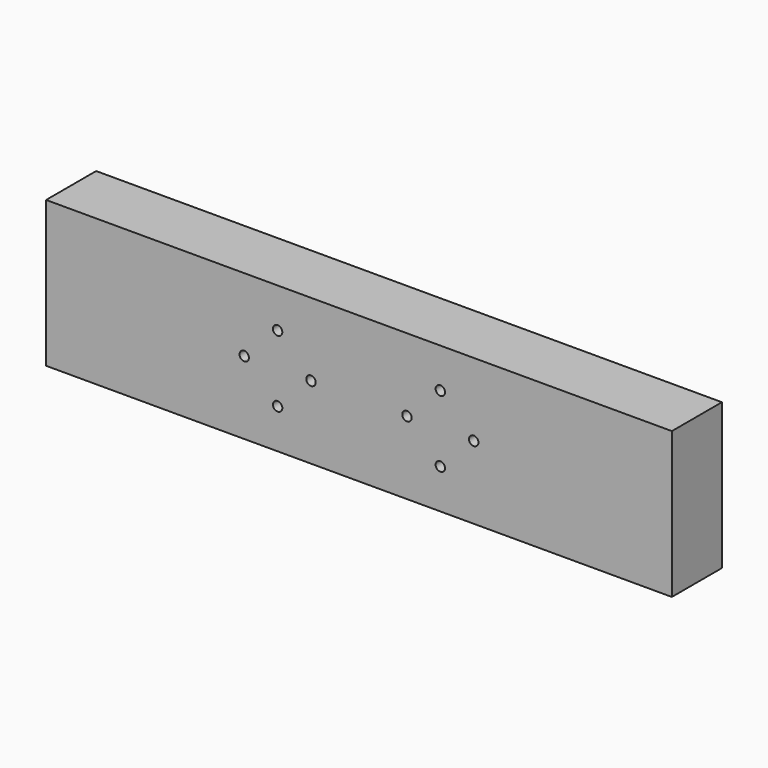
from build123d import *

# Parameters (mm, degrees)
F0_W     = 300
F0_H     = 70
F1_DEPTH = 30
F2_R     = 2.25
F3_DEPTH = 30.001


with BuildPart() as f1:
    # F0 (on Front) → F1 (new body)
    with BuildSketch(Plane.XZ):
        Rectangle(F0_W, F0_H)
    extrude(amount=F1_DEPTH)

    # F2 (on face) → F3 (cut, through all)
    with BuildSketch(Plane.XZ.offset(30)):
        with Locations((39, -16)):
            Circle(F2_R)
        with Locations((55, 0)):
            Circle(F2_R)
        with Locations((39, 16)):
            Circle(F2_R)
        with Locations((23, 0)):
            Circle(F2_R)
        with Locations((-39, -16)):
            Circle(F2_R)
        with Locations((-39, 16)):
            Circle(F2_R)
        with Locations((-55, 0)):
            Circle(F2_R)
        with Locations((-23, 0)):
            Circle(F2_R)
    extrude(amount=-F3_DEPTH, mode=Mode.SUBTRACT)


solid = f1.part
